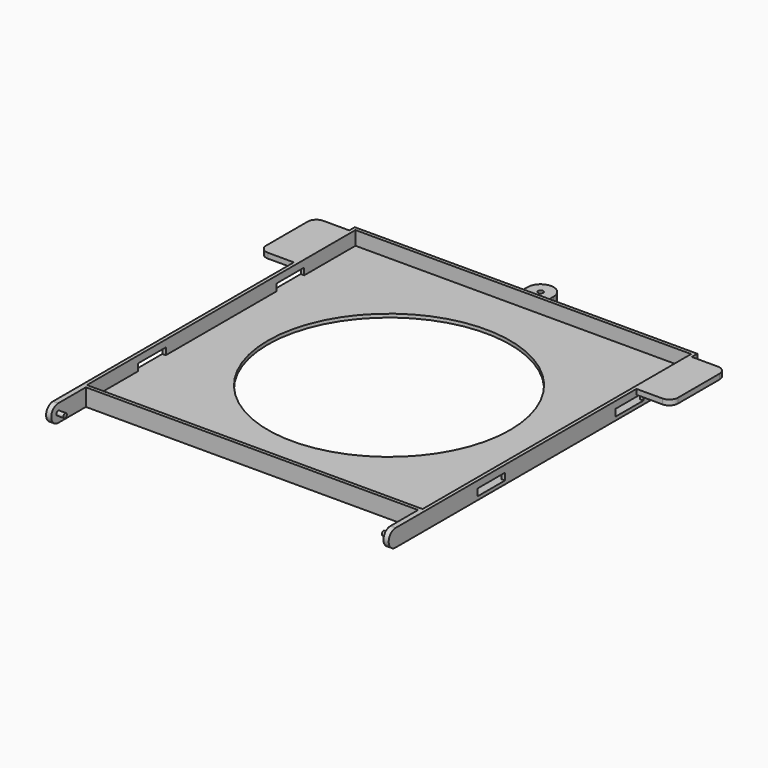
from build123d import *

# Parameters (mm, degrees)
F0_W      = 194
F0_H      = 194
F0_R      = 70
F1_DEPTH  = 2
F0_R_2    = 1.5
F2_DEPTH  = 5
F0_W_2    = 3
F0_H_2    = 20
F3_DEPTH  = 10
F5_DEPTH  = 3
F7_DEPTH  = 3
F8_R      = 1.25
F9_DEPTH  = 4
F11_R     = 1.25
F12_DEPTH = 4
F14_DEPTH = 3
F15_W     = 20
F15_H     = 4
F16_DEPTH = 2
F17_W     = 20
F17_H     = 4
F18_DEPTH = 2


with BuildPart() as f1:
    # F0 (on Top) → F1 (new body)
    with BuildSketch(Plane.XY):
        Rectangle(F0_W, F0_H)
        Circle(F0_R, mode=Mode.SUBTRACT)
    extrude(amount=F1_DEPTH)



with BuildPart() as f2:
    # F0 (on Top) → F2 (new body)
    with BuildSketch(Plane.XY):
        with BuildLine():
            Line((-7.5, 99), (7.5, 99))
            Line((7.5, 99), (7.5, 109.5))
            ThreePointArc((7.5, 109.5), (0, 117), (-7.5, 109.5))
            Line((-7.5, 109.5), (-7.5, 99))
        make_face()
        with Locations((0, 109.5)):
            Circle(F0_R_2, mode=Mode.SUBTRACT)
    extrude(amount=F2_DEPTH)


with BuildPart() as f1_1:
    add(f1.part)

    add(f2.part)  # F3 merges F2
    # F0 (on Top) → F3 (join)
    with BuildSketch(Plane.XY):
        Polygon((96, -99), (99, -99), (99, 99), (7.5, 99), (-7.5, 99), (-99, 99), (-99, -99), (-96, -99), align=None)
        Rectangle(F0_W, F0_H, mode=Mode.SUBTRACT)
        with Locations((-97.5, -109)):
            Rectangle(F0_W_2, F0_H_2)
        with Locations((97.5, -109)):
            Rectangle(F0_W_2, F0_H_2)
    extrude(amount=F3_DEPTH)

    # F4 (on face) → F5 (join)
    with BuildSketch(Plane.YZ.offset(-96)):
        with BuildLine():
            Line((-119, 0), (-119, 10))
            ThreePointArc((-119, 10), (-124, 5), (-119, 0))
        make_face()
    extrude(amount=-F5_DEPTH)

    # F6 (on face) → F7 (join)
    with BuildSketch(Plane.YZ.offset(99)):
        with BuildLine():
            Line((-119, 0), (-119, 10))
            ThreePointArc((-119, 10), (-124, 5), (-119, 0))
        make_face()
    extrude(amount=-F7_DEPTH)

    # F8 (on face) → F9 (join)
    with BuildSketch(Plane.YZ.offset(-96)):
        with Locations((-119, 5)):
            Circle(F8_R)
    extrude(amount=F9_DEPTH)

    # F11 (on offset) → F12 (join)
    with BuildSketch(Plane(origin=(96, 0, 0), x_dir=(0, -1, 0), z_dir=(-1, 0, 0))):
        with Locations((119, 5)):
            Circle(F11_R)
    extrude(amount=F12_DEPTH)

    # F13 (on face) → F14 (join)
    with BuildSketch(Plane.XY.offset(10)):
        with BuildLine():
            Line((-99, 55), (-99, 95))
            Line((-99, 95), (-114, 95))
            ThreePointArc((-114, 95), (-117.5355339059, 93.5355339059), (-119, 90))
            Line((-119, 90), (-119, 60))
            ThreePointArc((-119, 60), (-117.5355339059, 56.4644660941), (-114, 55))
            Line((-114, 55), (-99, 55))
        make_face()
        with BuildLine():
            Line((114, 95), (99, 95))
            Line((99, 95), (99, 55))
            Line((99, 55), (114, 55))
            ThreePointArc((114, 55), (117.5355339059, 56.4644660941), (119, 60))
            Line((119, 60), (119, 90))
            ThreePointArc((119, 90), (117.5355339059, 93.5355339059), (114, 95))
        make_face()
    extrude(amount=-F14_DEPTH)

    # F15 (on face) → F16 (cut, through all)
    with BuildSketch(Plane.YZ.offset(-97)):
        with Locations((-50, 4)):
            Rectangle(F15_W, F15_H)
        with Locations((50, 4)):
            Rectangle(F15_W, F15_H)
    extrude(amount=-F16_DEPTH, mode=Mode.SUBTRACT)

    # F17 (on face) → F18 (cut, through all)
    with BuildSketch(Plane(origin=(97, 0, 0), x_dir=(0, -1, 0), z_dir=(-1, 0, 0))):
        with Locations((50, 4)):
            Rectangle(F17_W, F17_H)
        with Locations((-50, 4)):
            Rectangle(F17_W, F17_H)
    extrude(amount=-F18_DEPTH, mode=Mode.SUBTRACT)


solid = f1_1.part
